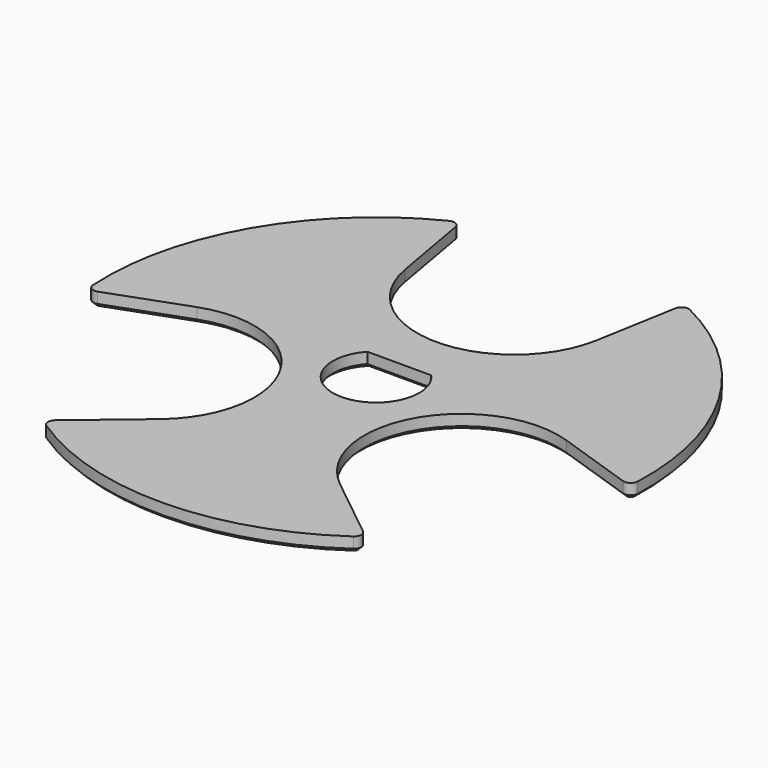
from build123d import *

# Parameters (mm, degrees)
F1_DEPTH = 2
F2_R     = 1
F3_SIZE  = 0.5


with BuildPart() as f1:
    # F0 (on Top) → F1 (new body)
    with BuildSketch(Plane.XY):
        with BuildLine():
            Line((-13.294905, 21.65575), (-15.497596, 34.147833))
            ThreePointArc((-15.497596, 34.147833), (-32.475953, 18.75), (-37.321689, -3.652605))
            Line((-37.321689, -3.652605), (-25.401882, 0.68585))
            ThreePointArc((-25.401882, 0.68585), (-9.093267, -5.25), (-12.106977, -22.3416))
            Line((-12.106977, -22.3416), (-21.824093, -30.495229))
            ThreePointArc((-21.824093, -30.495229), (0.445759, -37.497351), (22.542862, -29.967806))
            Line((22.542862, -29.967806), (12.634663, -22.047478))
            ThreePointArc((12.634663, -22.047478), (9.215501, -5.03235), (25.378399, 1.289513))
            Line((25.378399, 1.289513), (37.397972, -2.764357))
            ThreePointArc((37.397972, -2.764357), (32.250779, 19.134714), (15.497596, 34.147833))
            Line((15.497596, 34.147833), (13.294905, 21.65575))
            ThreePointArc((13.294905, 21.65575), (0, 10.5), (-13.294905, 21.65575))
        make_face()
        with BuildLine():
            ThreePointArc((4.426906, 4.05), (0, -6), (-4.426906, 4.05))
            Line((-4.426906, 4.05), (4.426906, 4.05))
        make_face(mode=Mode.SUBTRACT)
    extrude(amount=F1_DEPTH)

    # F2
    f2_edges = [f1.edges().sort_by_distance(p)[0] for p in [
        (22.542862, -29.967806, 1),
        (37.397972, -2.764357, 1),
        (-21.824093, -30.495229, 1),
        (-37.321689, -3.652605, 1),
        (-15.497596, 34.147833, 1),
        (15.497596, 34.147833, 1),
    ]]
    fillet(f2_edges, radius=F2_R)

    # F3
    f3_edges = [f1.edges().sort_by_distance(p)[0] for p in [
        (30.766032, -0.527587, 0),
        (37.040868, -2.220421, 0),
        (9.215501, -5.03235, 0),
        (32.250779, 19.134714, 0),
        (17.075898, -25.597672, 0),
        (15.80384, 33.573722, 0),
        (21.89221, -29.961431, 0),
        (14.282235, 27.25518, 0),
        (0.445759, -37.497351, 0),
        (0, 10.5, 0),
        (-21.173776, -30.473388, 0),
        (-14.282235, 27.25518, 0),
        (-16.462561, -25.996369, 0),
        (-15.80384, 33.573722, 0),
        (-9.093267, -5.25, 0),
        (-32.475953, 18.75, 0),
        (-30.744796, -1.258811, 0),
        (-36.977617, -3.100334, 0),
        (0, -6, 0),
        (0, 4.05, 0),
    ]]
    chamfer(f3_edges, length=F3_SIZE)


solid = f1.part
